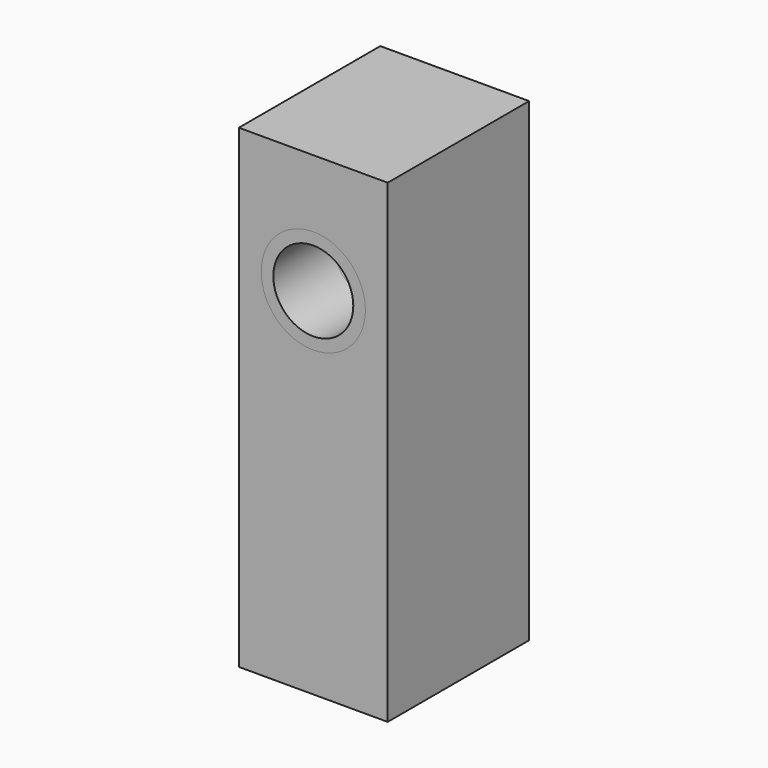
from build123d import *

# Parameters (mm, degrees)
F0_W     = 80
F0_H     = 255.13507
F1_DEPTH = 95
F2_R     = 28
F3_DEPTH = 40
F4_R     = 21.5
F5_DEPTH = 55.001
F6_R     = 28
F6_R_2   = 21.5
F7_DEPTH = 40


with BuildPart() as f1:
    # F0 (on Front) → F1 (new body)
    with BuildSketch(Plane.XZ):
        Rectangle(F0_W, F0_H)
    extrude(amount=F1_DEPTH)

    # F2 (on face) → F3 (cut)
    with BuildSketch(Plane.XZ.offset(95)):
        with Locations((0, 63.352488)):
            Circle(F2_R)
    extrude(amount=-F3_DEPTH, mode=Mode.SUBTRACT)

    # F4 (on face) → F5 (cut, through all)
    with BuildSketch(Plane.XZ.offset(55)):
        with Locations((0, 63.352488)):
            Circle(F4_R)
    extrude(amount=-F5_DEPTH, mode=Mode.SUBTRACT)


with BuildPart() as f7:
    # F6 (on face) → F7 (new body)
    with BuildSketch(Plane.XZ.offset(55)):
        with Locations((0, 63.352488)):
            Circle(F6_R)
        with Locations((0, 63.352488)):
            Circle(F6_R_2, mode=Mode.SUBTRACT)
    extrude(amount=F7_DEPTH)


solid = Compound([f1.part, f7.part])
